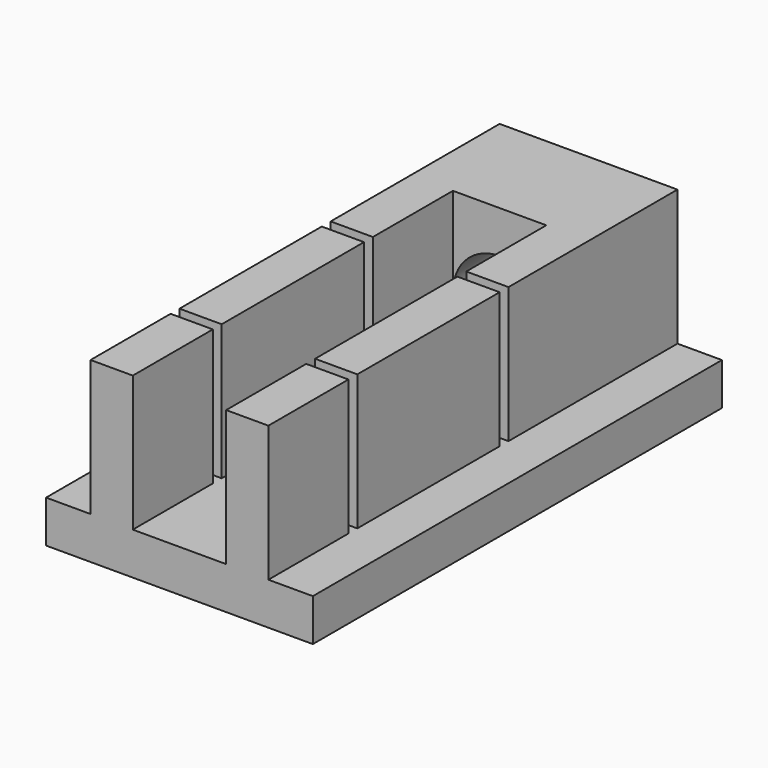
from build123d import *

# Parameters (mm, degrees)
BOX006_W       = 10
BOX006_H       = 0.5
BOX006_DEPTH   = 10
BOX002_W       = 1.9
BOX002_H       = 13
BOX002_DEPTH   = 8
BOX004_W       = 1.9
BOX004_H       = 4.5
BOX004_DEPTH   = 8
CYLINDER_R     = 2.1
CYLINDER_DEPTH = 25
BOX_W          = 8
BOX_H          = 5
BOX_DEPTH      = 8
BOX003_W       = 1.9
BOX003_H       = 4.5
BOX003_DEPTH   = 8
BOX005_W       = 12
BOX005_H       = 23
BOX005_DEPTH   = 1.9
BOX001_W       = 1.9
BOX001_H       = 13
BOX001_DEPTH   = 8


with BuildPart() as cube006:
    # Box006 → Box006 (new body)
    with BuildSketch(Plane(origin=(-5, 8, 1.9), x_dir=(1, 0, 0), z_dir=(0, 0, 1))):
        with Locations((5, 0.25)):
            Rectangle(BOX006_W, BOX006_H)
    extrude(amount=BOX006_DEPTH)


with BuildPart() as cube002:
    # Box002 → Box002 (new body)
    with BuildSketch(Plane(origin=(2.1, 0, 0), x_dir=(1, 0, 0), z_dir=(0, 0, 1))):
        with Locations((0.95, 6.5)):
            Rectangle(BOX002_W, BOX002_H)
    extrude(amount=BOX002_DEPTH)


with BuildPart() as cube004:
    # Box004 → Box004 (new body)
    with BuildSketch(Plane(origin=(2.1, -5, 0), x_dir=(1, 0, 0), z_dir=(0, 0, 1))):
        with Locations((0.95, 2.25)):
            Rectangle(BOX004_W, BOX004_H)
    extrude(amount=BOX004_DEPTH)


with BuildPart() as cylinder:
    # Cylinder → Cylinder (new body)
    with BuildSketch(Plane(origin=(0, -8.5, 4), x_dir=(1, 0, 0), z_dir=(0, 1, 0))):
        Circle(CYLINDER_R)
    extrude(amount=CYLINDER_DEPTH)


with BuildPart() as cut:
    # Box → Box (new body)
    with BuildSketch(Plane(origin=(-4, 13, 0), x_dir=(1, 0, 0), z_dir=(0, 0, 1))):
        with Locations((4, 2.5)):
            Rectangle(BOX_W, BOX_H)
    extrude(amount=BOX_DEPTH)

    # Cut: cut Cylinder
    add(cylinder.part, mode=Mode.SUBTRACT)


with BuildPart() as cube003:
    # Box003 → Box003 (new body)
    with BuildSketch(Plane(origin=(-4, -5, 0), x_dir=(1, 0, 0), z_dir=(0, 0, 1))):
        with Locations((0.95, 2.25)):
            Rectangle(BOX003_W, BOX003_H)
    extrude(amount=BOX003_DEPTH)


with BuildPart() as cube005:
    # Box005 → Box005 (new body)
    with BuildSketch(Plane(origin=(-6, -5, 0), x_dir=(1, 0, 0), z_dir=(0, 0, 1))):
        with Locations((6, 11.5)):
            Rectangle(BOX005_W, BOX005_H)
    extrude(amount=BOX005_DEPTH)


with BuildPart() as cut001:
    # Box001 → Box001 (new body)
    with BuildSketch(Plane(origin=(-4, 0, 0), x_dir=(1, 0, 0), z_dir=(0, 0, 1))):
        with Locations((0.95, 6.5)):
            Rectangle(BOX001_W, BOX001_H)
    extrude(amount=BOX001_DEPTH)

    # Fusion: union Cube002, Cube004, Cut, Cube003, Cube005
    add(cube002.part)
    add(cube004.part)
    add(cut.part)
    add(cube003.part)
    add(cube005.part)

    # Cut001: cut Cube006
    add(cube006.part, mode=Mode.SUBTRACT)


solid = cut001.part
